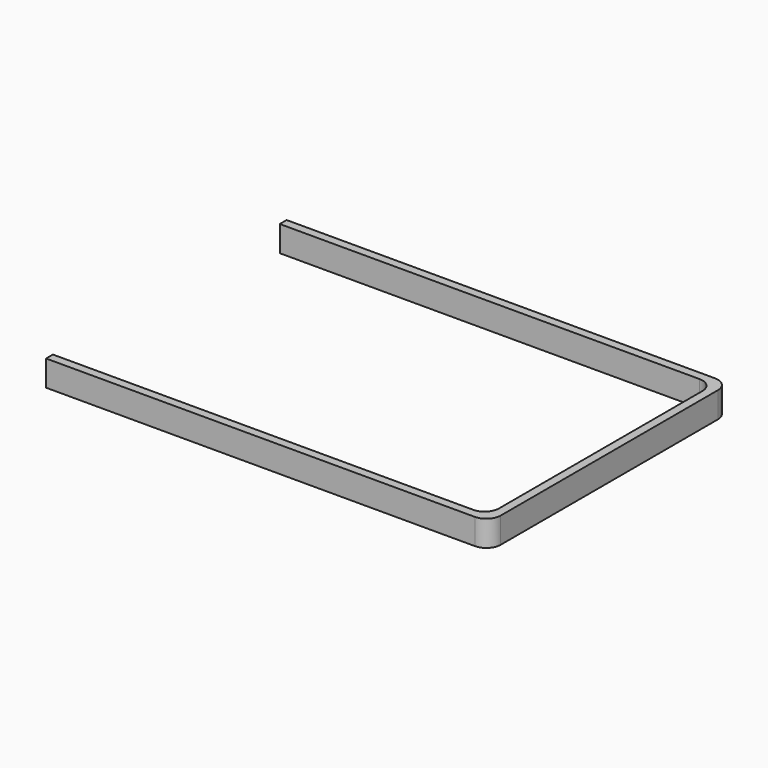
from build123d import *

# Parameters (mm, degrees)
F0_W     = 200
F0_H     = 150
F1_DEPTH = 9
F2_W     = 10
F2_H     = 12.5
F3_DEPTH = 25
F4_R     = 5


with BuildPart() as f1:
    # F0 (on Top) → F1 (new body)
    with BuildSketch(Plane.XY):
        Rectangle(F0_W, F0_H)
    extrude(amount=F1_DEPTH)

    # F2 (on face) → F3 (cut)
    with BuildSketch(Plane.XY.offset(9)):
        Polygon((87.4994372893, -64.5627596692), (87.4994372893, 60.4372403308), (-87.5005627107, 60.4372403308), (-87.5005627107, 34.7239444211), (-41.0005627107, 34.7239444211), (-33.5005627107, 34.7239444211), (-33.5005627107, 26.7239444211), (-38.5005627107, 26.7239444211), (-38.5005627107, 29.7239444211), (-46.0005627107, 29.7239444211), (-87.5005627107, 29.7239444211), (-87.5005627107, 2.7372403308), (-92.5005627107, -0.2627596692), (-100, -0.2627596692), (-100, -3.8627596692), (-92.5005627107, -3.8627596692), (-87.5005627107, -6.8627596692), (-87.5005627107, -33.2760555789), (-38.5005627107, -33.2760555789), (-38.5005627107, -30.2760555789), (-33.5005627107, -30.2760555789), (-33.5005627107, -38.2760555789), (-41.0005627107, -38.2760555789), (-46.0005627107, -38.2760555789), (-87.5005627107, -38.2760555789), (-87.5005627107, -64.5627596692), (-77.5005627107, -64.5627596692), align=None)
        with BuildLine():
            Line((-77.3623862099, 50.4372403308), (-74.3623862099, 50.4372403308))
            Line((-74.3623862099, 50.4372403308), (60.6376137901, 50.4372403308))
            Line((60.6376137901, 50.4372403308), (74.4994372893, 50.4372403308))
            Line((74.4994372893, 50.4372403308), (77.4994372893, 50.4372403308))
            Line((77.4994372893, 50.4372403308), (77.4994372893, 47.4372403308))
            Line((77.4994372893, 47.4372403308), (77.4994372893, -54.5627596692))
            Line((77.4994372893, -54.5627596692), (60.6376137901, -54.5627596692))
            Line((60.6376137901, -54.5627596692), (-77.5005627107, -54.5627596692))
            Line((-77.5005627107, -54.5627596692), (-77.5005627107, -51.5627596692))
            Line((-77.5005627107, -51.5627596692), (60.6376137901, -51.5627596692))
            Line((60.6376137901, -51.5627596692), (69.4994372893, -51.5627596692))
            ThreePointArc((69.4994372893, -51.5627596692), (73.0349711952, -50.0982935751), (74.4994372893, -46.5627596692))
            Line((74.4994372893, -46.5627596692), (74.4994372893, 42.4372403308))
            ThreePointArc((74.4994372893, 42.4372403308), (73.0349711952, 45.9727742368), (69.4994372893, 47.4372403308))
            Line((69.4994372893, 47.4372403308), (60.6376137901, 47.4372403308))
            Line((60.6376137901, 47.4372403308), (57.6376137901, 47.4372403308))
            Line((57.6376137901, 47.4372403308), (-74.3623862099, 47.4372403308))
            Line((-74.3623862099, 47.4372403308), (-77.3623862099, 47.4372403308))
            Line((-77.3623862099, 47.4372403308), (-77.3623862099, 50.4372403308))
        make_face(mode=Mode.SUBTRACT)
        Polygon((39.9994372893, -27.0627596692), (39.9994372893, -2.0627596692), (39.9994372893, 22.9372403308), (39.9994372893, 35.4372403308), (49.9994372893, 35.4372403308), (49.9994372893, 22.9372403308), (49.9994372893, -27.0627596692), (49.9994372893, -39.5627596692), (39.9994372893, -39.5627596692), align=None, mode=Mode.SUBTRACT)
        Polygon((39.9994372893, 22.9372403308), (39.9994372893, -2.0627596692), (39.9994372893, -27.0627596692), (49.9994372893, -27.0627596692), (49.9994372893, 22.9372403308), align=None)
        with Locations((44.9994372893, 29.1872403308)):
            Rectangle(F2_W, F2_H)
        with Locations((44.9994372893, -33.3127596692)):
            Rectangle(F2_W, F2_H)
        Polygon((-87.5005627107, 60.4372403308), (87.4994372893, 60.4372403308), (87.4994372893, -64.5627596692), (-77.5005627107, -64.5627596692), (-87.5005627107, -64.5627596692), (-87.5005627107, -38.2760555789), (-46.0005627107, -38.2760555789), (-41.0005627107, -38.2760555789), (-33.5005627107, -38.2760555789), (-33.5005627107, -30.2760555789), (-38.5005627107, -30.2760555789), (-38.5005627107, -33.2760555789), (-87.5005627107, -33.2760555789), (-87.5005627107, -6.8627596692), (-92.5005627107, -3.8627596692), (-100, -3.8627596692), (-100, -75), (100, -75), (100, 75), (-100, 75), (-100, -0.2627596692), (-92.5005627107, -0.2627596692), (-87.5005627107, 2.7372403308), (-87.5005627107, 29.7239444211), (-46.0005627107, 29.7239444211), (-38.5005627107, 29.7239444211), (-38.5005627107, 26.7239444211), (-33.5005627107, 26.7239444211), (-33.5005627107, 34.7239444211), (-41.0005627107, 34.7239444211), (-87.5005627107, 34.7239444211), align=None)
    extrude(amount=-F3_DEPTH, mode=Mode.SUBTRACT)

    # F4
    f4_edges = [f1.edges().sort_by_distance(p)[0] for p in [
        (77.499437, 50.43724, 4.5),
        (77.499437, -54.56276, 4.5),
    ]]
    fillet(f4_edges, radius=F4_R)


solid = f1.part
